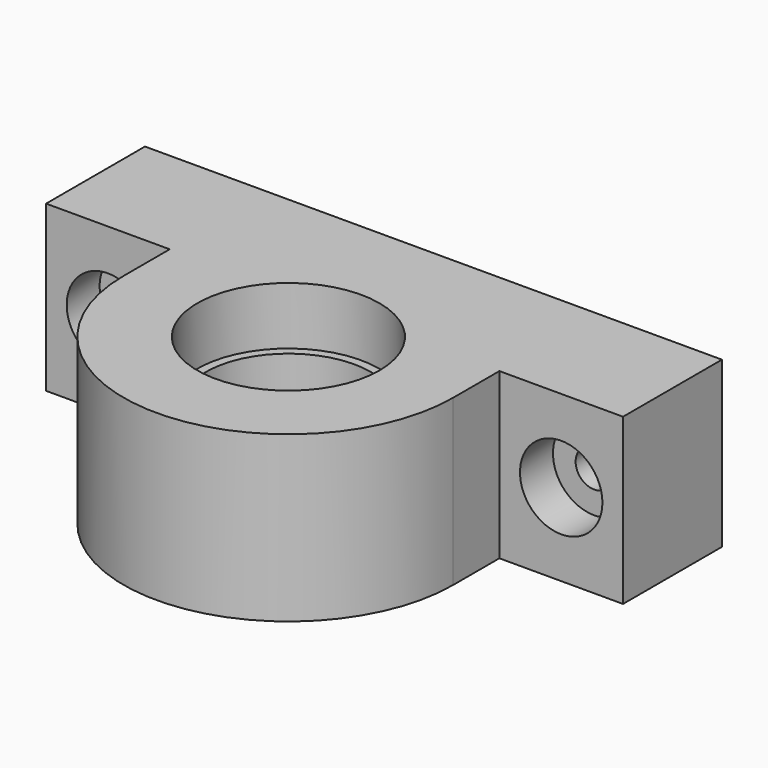
from build123d import *

# Parameters (mm, degrees)
PAD_DEPTH       = 20
SKETCH006_R     = 10
POCKET_DEPTH    = 20.001
SKETCH005_R     = 11.05
POCKET001_DEPTH = 7
SKETCH002_R     = 2.25
POCKET002_DEPTH = 15.001
SKETCH003_R     = 5
POCKET003_DEPTH = 5


with BuildPart() as part:
    # Sketch → Pad (new body)
    with BuildSketch(Plane.XY):
        with BuildLine():
            Line((-35, 22), (35, 22))
            Line((35, 7), (35, 22))
            Line((20, 7), (35, 7))
            Line((20, 0), (20, 7))
            ThreePointArc((-20, 0), (0, -20), (20, 0))
            Line((-20, 0), (-20, 7))
            Line((-20, 7), (-35, 7))
            Line((-35, 7), (-35, 22))
        make_face()
    extrude(amount=PAD_DEPTH)

    # Sketch006 → Pocket (cut, through all)
    with BuildSketch(Plane(origin=(0, 0, 0), x_dir=(1, 0, 0), z_dir=(0, 0, -1))):
        Circle(SKETCH006_R)
    extrude(amount=-POCKET_DEPTH, mode=Mode.SUBTRACT)

    # Sketch005 → Pocket001 (cut)
    with BuildSketch(Plane.XY.offset(20)):
        Circle(SKETCH005_R)
    extrude(amount=-POCKET001_DEPTH, mode=Mode.SUBTRACT)

    # Sketch002 → Pocket002 (cut, through all)
    with BuildSketch(Plane.XZ.offset(-7)):
        with Locations((-27.5, 10)):
            Circle(SKETCH002_R)
        with Locations((27.5, 10)):
            Circle(SKETCH002_R)
    extrude(amount=-POCKET002_DEPTH, mode=Mode.SUBTRACT)

    # Sketch003 → Pocket003 (cut)
    with BuildSketch(Plane.XZ.offset(-7)):
        with Locations((-27.5, 10)):
            Circle(SKETCH003_R)
        with Locations((27.5, 10)):
            Circle(SKETCH003_R)
    extrude(amount=-POCKET003_DEPTH, mode=Mode.SUBTRACT)


solid = part.part
